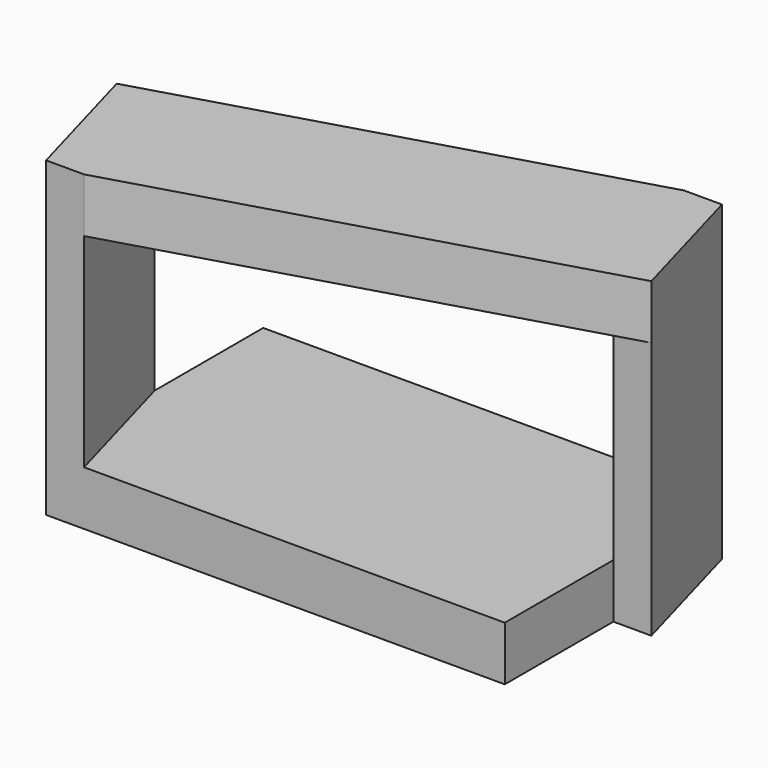
from build123d import *

# Parameters (mm, degrees)
PAD_DEPTH             = 0.4
POLARPATTERN_COUNT    = 2
PAD001_DEPTH          = 1.5
POLARPATTERN001_COUNT = 2
PAD002_DEPTH          = 0.4


with BuildPart() as part:
    # Sketch → Pad (new body)
    with BuildSketch(Plane.XY):
        Polygon((-1.69, 1), (1.69, 1), (1.97, 0), (-1.69, 0), align=None)
    pad = extrude(amount=PAD_DEPTH)

    # PolarPattern: Pad ×2 about axis
    polarpattern_axis = Axis((0, 0, 0), (0, 0, 1))
    for i in range(1, POLARPATTERN_COUNT):
        add(pad.rotate(polarpattern_axis, i * 360 / POLARPATTERN_COUNT))

    # Sketch001 (on Face5 of PolarPattern) → Pad001 (join)
    with BuildSketch(Plane.XY.offset(0.4)):
        Polygon((1.41, 1), (1.69, 1), (1.97, 0), (1.69, 0), align=None)
    pad001 = extrude(amount=PAD001_DEPTH)

    # PolarPattern001: Pad001 ×2 about axis
    polarpattern001_axis = Axis((0, 0, 0.4), (0, 0, 1))
    for i in range(1, POLARPATTERN001_COUNT):
        add(pad001.rotate(polarpattern001_axis, i * 360 / POLARPATTERN001_COUNT))

    # Sketch002 (on Face13 of PolarPattern001) → Pad002 (join)
    with BuildSketch(Plane.XY.offset(1.9)):
        Polygon((1.41, 1), (1.69, 1), (1.97, 0), (-1.41, -1), (-1.69, -1), (-1.97, 0), align=None)
    extrude(amount=PAD002_DEPTH)


solid = part.part
